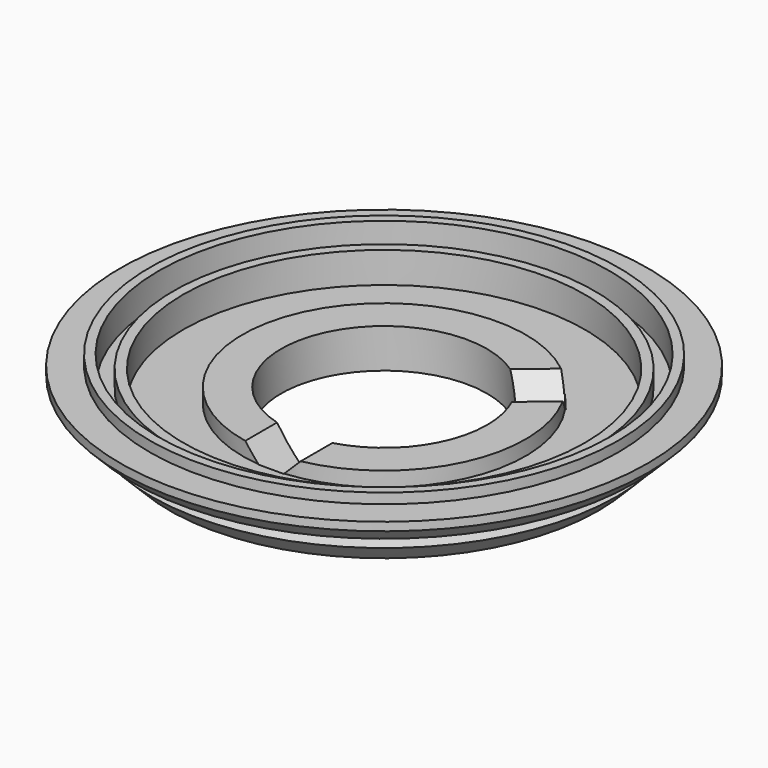
from build123d import *

# Parameters (mm, degrees)
F5_COUNT = 2
F5_ANGLE = 130
F7_R     = 1
F8_DEPTH = 1.901


with BuildPart() as f1:
    # F0 (on Front) → F1 (revolve)
    with BuildSketch(Plane.XZ):
        Polygon((8, 3.05), (8, 0), (16.65, 0), (18.107969, 1.457969), (17.215685, 1.697056), (19.195584, 3.676955), (19.434671, 2.784671), (20.5, 3.85), (20.5, 4.5), (18.2, 4.5), (18.2, 5.3), (17.5, 5.3), (17.5, 3), (16.35, 3), (16.35, 4.3), (15.6, 4.3), (15.6, 1.9), (11, 1.9), (11, 3.05), align=None)
    revolve(axis=Axis((0, 0, 2.65), (0, 0, 1)))


with BuildPart() as f4:
    # F4: sweep along a path in F3
    with BuildLine(Plane.XY.offset(3.05)) as f4_path:
        Line((0, -11), (0, 0))
    # F2 (on Front) → F4 (sweep)
    with BuildSketch(Plane.XZ):
        Polygon((-2.15, 3.05), (0, 0.9), (2.15, 3.05), align=None)
    sweep(path=f4_path.line)


with BuildPart() as f5_1:
    # F5: instance of F4
    add(f4.part.rotate(Axis((0, 0, 2.65), (0, 0, 1)), 1 * F5_ANGLE / (F5_COUNT - 1)))


with BuildPart() as f1_1:
    add(f1.part)

    # F6: cut F4, F5_1
    add(f4.part, mode=Mode.SUBTRACT)
    add(f5_1.part, mode=Mode.SUBTRACT)

    # F7 (on face) → F8 (cut, through all)
    with BuildSketch(Plane.XY.offset(1.9)):
        with Locations((0, -13.5)):
            Circle(F7_R)
        with Locations((8.649447, -10.365185)):
            Circle(F7_R)
    extrude(amount=-F8_DEPTH, mode=Mode.SUBTRACT)


solid = f1_1.part
